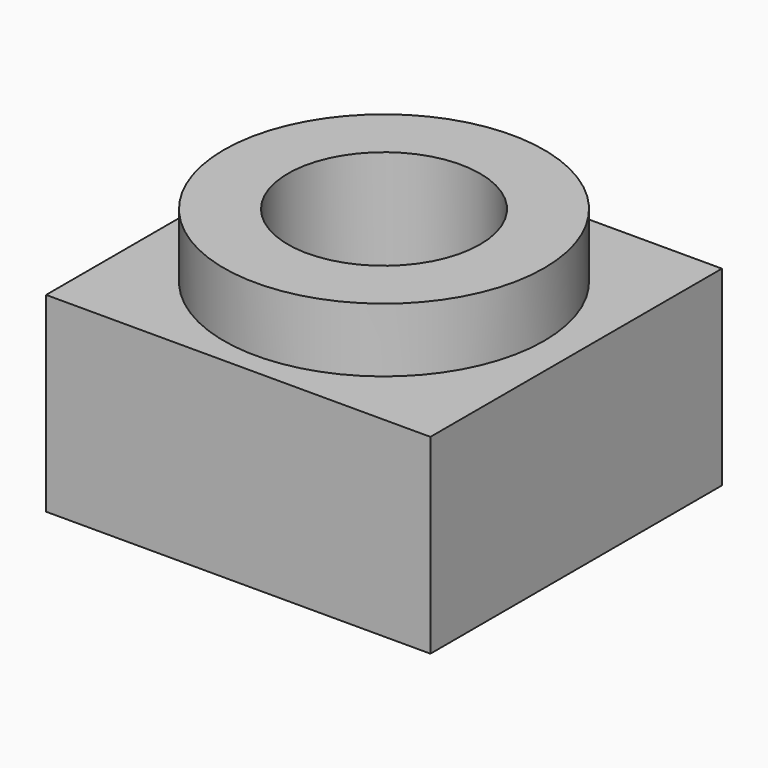
from build123d import *

# Parameters (mm, degrees)
F0_R      = 25
F1_DEPTH  = 10
F2_W      = 60
F2_H      = 56.883122
F1_FACE_R = 25
F3_DEPTH  = 29.8
F4_R      = 15
F5_DEPTH  = 47.7


with BuildPart() as f1:
    # F0 (on Top) → F1 (new body)
    with BuildSketch(Plane.XY):
        Circle(F0_R)
    extrude(amount=F1_DEPTH)

    # F2 (on Top) + F1_face (on face) → F3 (join)
    with BuildSketch(Plane.XY):
        Rectangle(F2_W, F2_H)
    with BuildSketch(Plane.XY.offset(10)):
        Circle(F1_FACE_R)
    extrude(amount=-F3_DEPTH)

    # F4 (on face) → F5 (cut)
    with BuildSketch(Plane.XY.offset(10)):
        Circle(F4_R)
    extrude(amount=-F5_DEPTH, mode=Mode.SUBTRACT)


solid = f1.part
